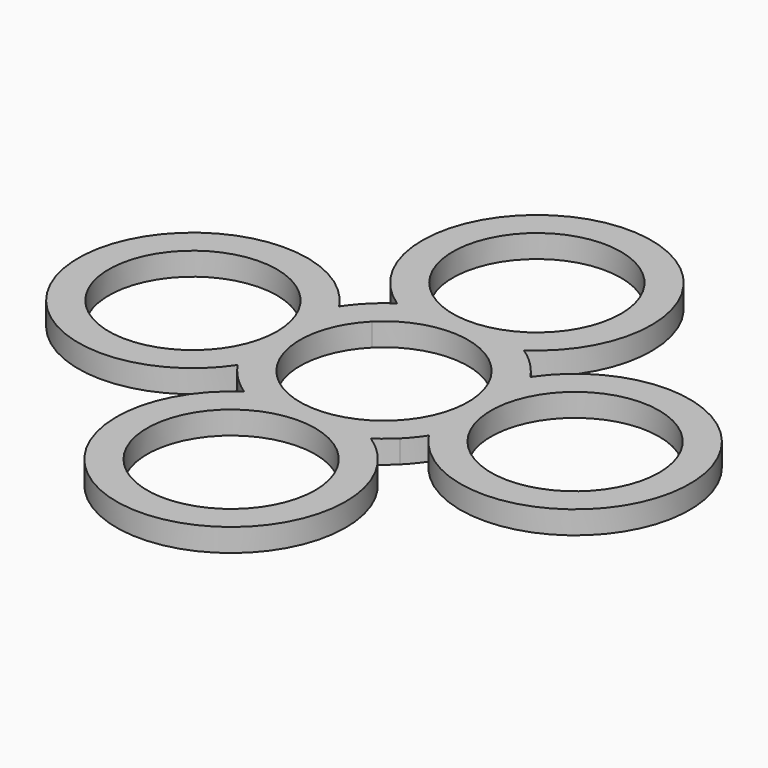
from build123d import *

# Parameters (mm, degrees)
F0_R     = 11
F1_DEPTH = 3


with BuildPart() as f1:
    # F0 (on Top) → F1 (new body)
    with BuildSketch(Plane.XY):
        with BuildLine():
            ThreePointArc((8.291562, 12.5), (0, 40), (-8.291562, 12.5))
            ThreePointArc((-8.291562, 12.5), (-9.496381, 11.611148), (-10.606588, 10.606615))
            ThreePointArc((-10.606588, 10.606615), (-11.611136, 9.496396), (-12.5, 8.291562))
            ThreePointArc((-12.5, 8.291562), (-40, 0), (-12.5, -8.291562))
            ThreePointArc((-12.5, -8.291562), (-11.611148, -9.496381), (-10.606615, -10.606588))
            ThreePointArc((-10.606615, -10.606588), (-9.496396, -11.611136), (-8.291562, -12.5))
            ThreePointArc((-8.291562, -12.5), (0, -40), (8.291562, -12.5))
            ThreePointArc((8.291562, -12.5), (9.496381, -11.611148), (10.606588, -10.606615))
            ThreePointArc((10.606588, -10.606615), (11.611136, -9.496396), (12.5, -8.291562))
            ThreePointArc((12.5, -8.291562), (40, 0), (12.5, 8.291562))
            ThreePointArc((12.5, 8.291562), (11.611148, 9.496381), (10.606615, 10.606588))
            ThreePointArc((10.606615, 10.606588), (9.496396, 11.611136), (8.291562, 12.5))
        make_face()
        with Locations((0, -25)):
            Circle(F0_R, mode=Mode.SUBTRACT)
        with Locations((-25, 0)):
            Circle(F0_R, mode=Mode.SUBTRACT)
        with BuildLine():
            ThreePointArc((-7.778165, 7.778185), (1.4e-05, 11), (7.778185, 7.778165))
            ThreePointArc((7.778185, 7.778165), (11, -1.4e-05), (7.778165, -7.778185))
            ThreePointArc((7.778165, -7.778185), (-1.4e-05, -11), (-7.778185, -7.778165))
            ThreePointArc((-7.778185, -7.778165), (-11, 1.4e-05), (-7.778165, 7.778185))
        make_face(mode=Mode.SUBTRACT)
        with Locations((25, 0)):
            Circle(F0_R, mode=Mode.SUBTRACT)
        with Locations((0, 25)):
            Circle(F0_R, mode=Mode.SUBTRACT)
    extrude(amount=F1_DEPTH)


solid = f1.part
